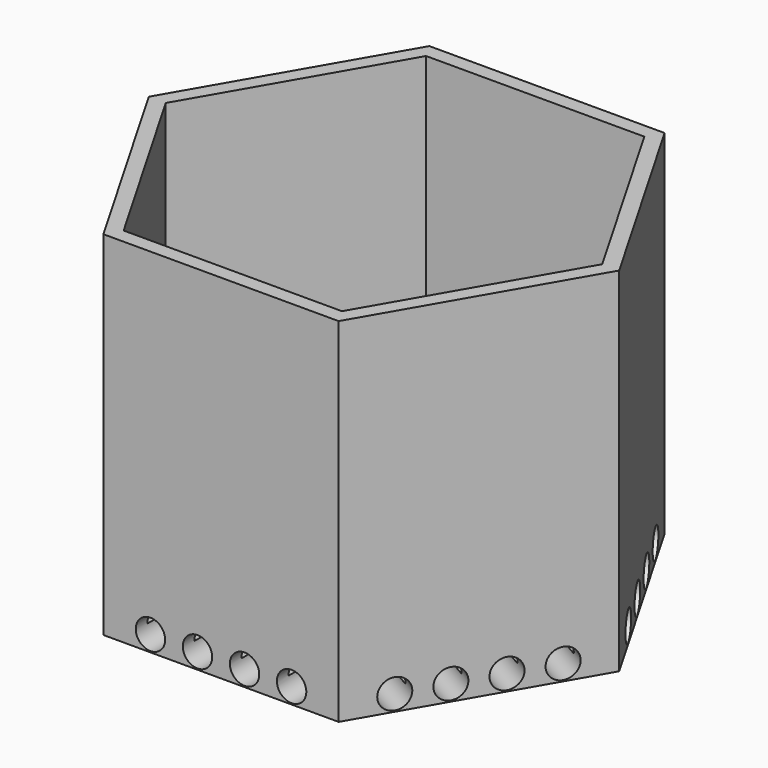
from build123d import *

# Parameters (mm, degrees)
F2_DEPTH = 152.4
F3_T     = -6.35
F4_R     = 6.35
F5_DEPTH = 203.2
F6_R     = 6.35
F7_DEPTH = 203.2
F8_R     = 6.35
F9_DEPTH = 203.2


with BuildPart() as f2:
    # F0 (on Top) → F2 (new body)
    with BuildSketch(Plane.XY):
        Polygon((-50.8, 87.9881810245), (-101.6, 0), (-50.8, -87.9881810245), (50.8, -87.9881810245), (101.6, 0), (50.8, 87.9881810245), align=None)
    extrude(amount=F2_DEPTH)

    # F3
    f3_openings = [f2.faces().sort_by_distance(p)[0] for p in [
        (0, 0, 152.4),
    ]]
    offset(amount=F3_T, openings=f3_openings)

    # F4 (on face) → F5 (cut)
    with BuildSketch(Plane(origin=(76.2, 43.9940905122, 0), x_dir=(-0.5, 0.8660254038, 0), z_dir=(0.8660254038, 0.5, 0))):
        with Locations((-30.48, 6.858)):
            Circle(F4_R)
        with Locations((-10.16, 6.858)):
            Circle(F4_R)
        with Locations((10.16, 6.858)):
            Circle(F4_R)
        with Locations((30.48, 6.858)):
            Circle(F4_R)
    extrude(amount=-F5_DEPTH, mode=Mode.SUBTRACT)

    # F6 (on face) → F7 (cut)
    with BuildSketch(Plane(origin=(-76.2, 43.9940905122, 0), x_dir=(-0.5, -0.8660254038, 0), z_dir=(-0.8660254038, 0.5, 0))):
        with Locations((-30.48, 6.858)):
            Circle(F6_R)
        with Locations((-10.16, 6.858)):
            Circle(F6_R)
        with Locations((10.16, 6.858)):
            Circle(F6_R)
        with Locations((30.48, 6.858)):
            Circle(F6_R)
    extrude(amount=-F7_DEPTH, mode=Mode.SUBTRACT)

    # F8 (on face) → F9 (cut)
    with BuildSketch(Plane(origin=(0, 87.9881810245, 0), x_dir=(-1, 0, 0), z_dir=(0, 1, 0))):
        with Locations((-30.48, 6.858)):
            Circle(F8_R)
        with Locations((-10.16, 6.858)):
            Circle(F8_R)
        with Locations((10.16, 6.858)):
            Circle(F8_R)
        with Locations((30.48, 6.858)):
            Circle(F8_R)
    extrude(amount=-F9_DEPTH, mode=Mode.SUBTRACT)


solid = f2.part
